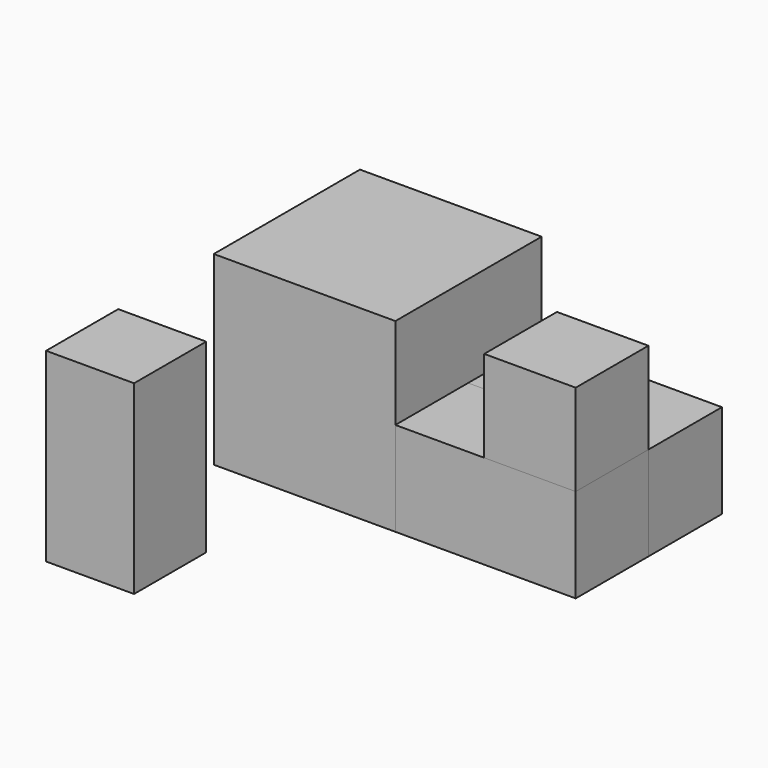
from build123d import *

# Parameters (mm, degrees)
F0_W     = 7.7089
F0_H     = 7.8994
F1_DEPTH = 16.256
F2_DEPTH = 16.256
F0_W_2   = 8.0137
F0_H_2   = 7.9629
F3_DEPTH = 16.256
F4_DEPTH = 8.2423
F5_DEPTH = 7.9629


with BuildPart() as f1:
    # F0 (on Top) → F1 (new body)
    with BuildSketch(Plane.XY):
        with Locations((-13.1188610815, -4.4951643029)):
            Rectangle(F0_W, F0_H)
    extrude(amount=F1_DEPTH)


with BuildPart() as f2:
    # F0 (on Top) → F2 (new body)
    with BuildSketch(Plane.XY):
        Polygon((-16.9733110815, 25.9340356971), (-16.9733110815, 9.9193356971), (-9.2644110815, 9.9193356971), (-1.0602110815, 9.9193356971), (-1.0602110815, 17.8822356971), (-1.0602110815, 25.9340356971), align=None)
    extrude(amount=F2_DEPTH)


with BuildPart() as f3:
    # F0 (on Top) → F3 (new body)
    with BuildSketch(Plane.XY):
        with Locations((10.7317389185, 13.9007856971)):
            Rectangle(F0_W_2, F0_H_2)
    extrude(amount=F3_DEPTH)


with BuildPart() as f4:
    # F0 (on Top) → F4 (new body)
    with BuildSketch(Plane.XY):
        Polygon((14.7385889185, 25.9340356971), (-1.0602110815, 25.9340356971), (-1.0602110815, 17.8822356971), (6.7248889185, 17.8822356971), (14.7385889185, 17.8822356971), align=None)
    extrude(amount=F4_DEPTH)


with BuildPart() as f5:
    # F5 (new, through all): a face of the model
    f5_faces = [f4.part.faces().sort_by_distance(p)[0] for p in [
        (6.8391889185, 17.8822356971, 4.12115),
    ]]
    extrude(f5_faces, amount=F5_DEPTH)


solid = Compound([f1.part, f2.part, f3.part, f4.part, f5.part])
